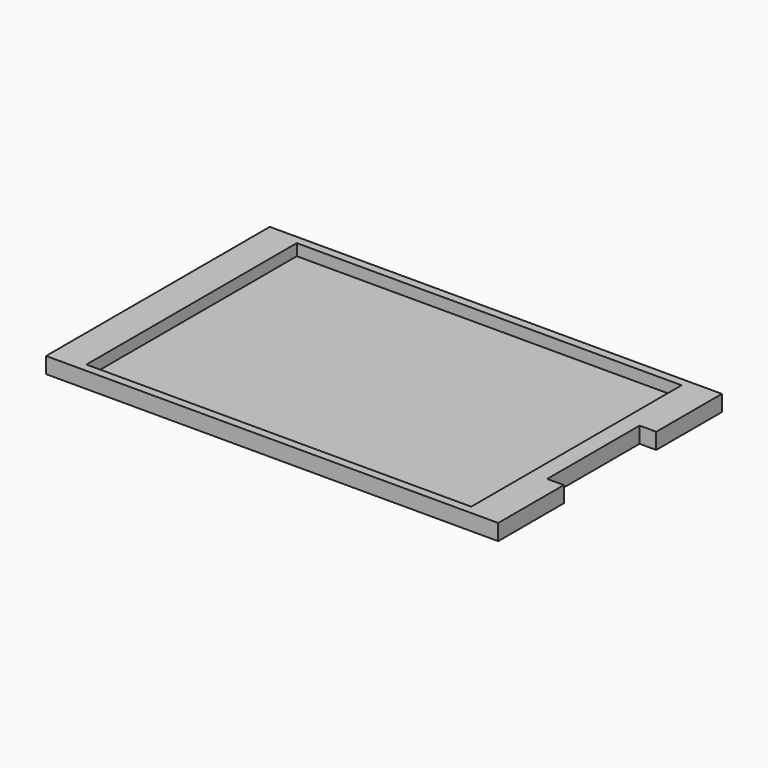
from build123d import *

# Parameters (mm, degrees)
SKETCH_W        = 70.5
SKETCH_H        = 43.6
PAD_DEPTH       = 2.5
SKETCH001_W     = 60
SKETCH001_H     = 41
POCKET_DEPTH    = 1.8
SKETCH002_W     = 2.6
SKETCH002_H     = 18
POCKET001_DEPTH = 5


with BuildPart() as part:
    # Sketch → Pad (new body)
    with BuildSketch(Plane.XY):
        Rectangle(SKETCH_W, SKETCH_H)
    extrude(amount=PAD_DEPTH)

    # Sketch001 (on Face6 of Pad) → Pocket (cut)
    with BuildSketch(Plane.XY.offset(2.5)):
        Rectangle(SKETCH001_W, SKETCH001_H)
    extrude(amount=-POCKET_DEPTH, mode=Mode.SUBTRACT)

    # Sketch002 (on Face5 of Pocket) → Pocket001 (cut)
    with BuildSketch(Plane.XY.offset(2.5)):
        with Locations((33.95, 0)):
            Rectangle(SKETCH002_W, SKETCH002_H)
    extrude(amount=-POCKET001_DEPTH, mode=Mode.SUBTRACT)


solid = part.part
